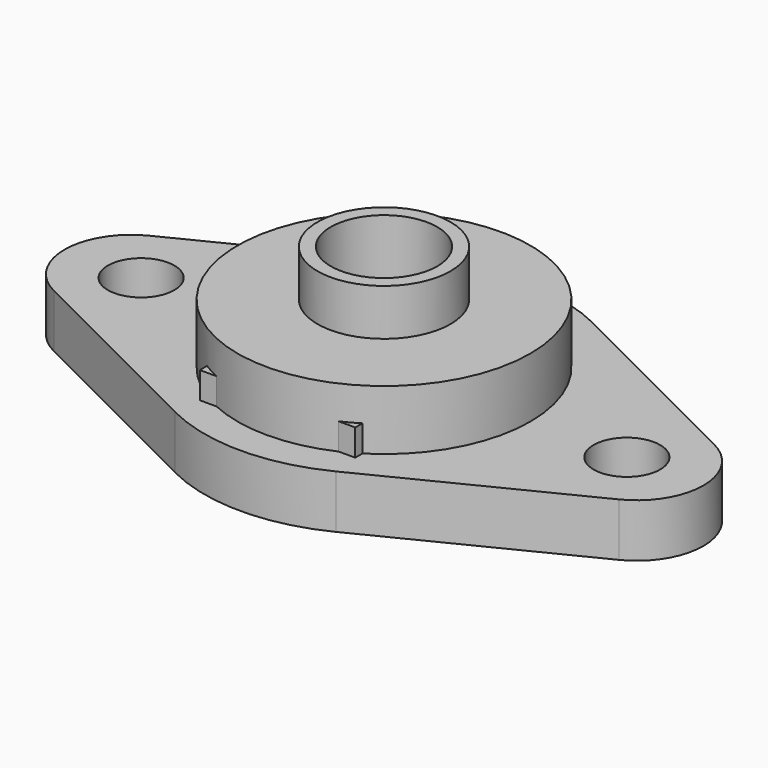
from build123d import *

# Parameters (mm, degrees)
PAD_DEPTH       = 4
SKETCH001_R     = 2.5
POCKET_DEPTH    = 4.001
SKETCH002_R     = 11
PAD001_DEPTH    = 4.5
SKETCH003_R     = 5
PAD002_DEPTH    = 3.5
SKETCH004_R     = 4
POCKET001_DEPTH = 12.001
SKETCH005_W     = 11.67783
SKETCH005_H     = 2
PAD003_DEPTH    = 2


with BuildPart() as part:
    # Sketch → Pad (new body)
    with BuildSketch(Plane.XY):
        with BuildLine():
            ThreePointArc((21.236842, -4.471749), (24, 0), (21.236842, 4.471749))
            Line((21.236842, 4.471749), (6.039474, 12.073722))
            ThreePointArc((6.039474, 12.073722), (0, 13.5), (-6.039474, 12.073722))
            Line((-21.236842, 4.471749), (-6.039474, 12.073722))
            ThreePointArc((-21.236842, 4.471749), (-24, 0), (-21.236842, -4.471749))
            Line((-21.236842, -4.471749), (-6.039474, -12.073722))
            ThreePointArc((-6.039474, -12.073722), (0, -13.5), (6.039474, -12.073722))
            Line((6.039474, -12.073722), (21.236842, -4.471749))
        make_face()
    extrude(amount=PAD_DEPTH)

    # Sketch001 (on Face10 of Pad) → Pocket (cut, through all)
    with BuildSketch(Plane.XY.offset(4)):
        with Locations((-18.25, 0)):
            Circle(SKETCH001_R)
        with Locations((18.25, 0)):
            Circle(SKETCH001_R)
    extrude(amount=-POCKET_DEPTH, mode=Mode.SUBTRACT)

    # Sketch002 (on Face5 of Pocket) → Pad001 (join)
    with BuildSketch(Plane.XY.offset(4)):
        Circle(SKETCH002_R)
    extrude(amount=PAD001_DEPTH)

    # Sketch003 (on Face14 of Pad001) → Pad002 (join)
    with BuildSketch(Plane.XY.offset(8.5)):
        Circle(SKETCH003_R)
    extrude(amount=PAD002_DEPTH)

    # Sketch004 (on Face16 of Pad002) → Pocket001 (cut, through all)
    with BuildSketch(Plane.XY.offset(12)):
        Circle(SKETCH004_R)
    extrude(amount=-POCKET001_DEPTH, mode=Mode.SUBTRACT)

    # Sketch005 (on Face5 of Pocket001) → Pad003 (join)
    with BuildSketch(Plane.XY.offset(4)):
        with Locations((0, -9)):
            Rectangle(SKETCH005_W, SKETCH005_H)
    extrude(amount=PAD003_DEPTH)


solid = part.part
